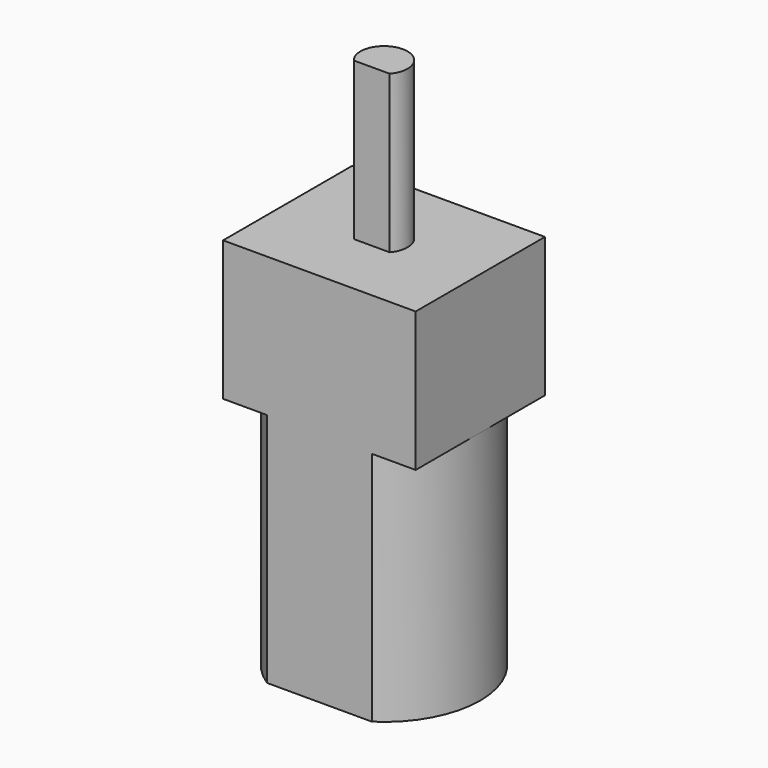
from build123d import *

# Parameters (mm, degrees)
F1_DEPTH = 15.24
F2_W     = 12.446
F2_H     = 10.4394
F3_DEPTH = 9.017
F5_DEPTH = 10.16


with BuildPart() as f1:
    # F0 (on Top) → F1 (new body)
    with BuildSketch(Plane.XY):
        with BuildLine():
            Line((3.388283, 5.2197), (-3.388283, 5.2197))
            ThreePointArc((-3.388283, 5.2197), (-6.223, 0), (-3.388283, -5.2197))
            Line((-3.388283, -5.2197), (3.388283, -5.2197))
            ThreePointArc((3.388283, -5.2197), (6.223, 0), (3.388283, 5.2197))
        make_face()
    extrude(amount=F1_DEPTH)

    # F2 (on face) → F3 (join)
    with BuildSketch(Plane.XY.offset(15.24)):
        Rectangle(F2_W, F2_H)
    extrude(amount=F3_DEPTH)

    # F4 (on face) → F5 (join)
    with BuildSketch(Plane.XY.offset(24.257)):
        with BuildLine():
            Line((-1.15814, -0.9906), (1.15814, -0.9906))
            ThreePointArc((1.15814, -0.9906), (0, 1.524), (-1.15814, -0.9906))
        make_face()
    extrude(amount=F5_DEPTH)


solid = f1.part
